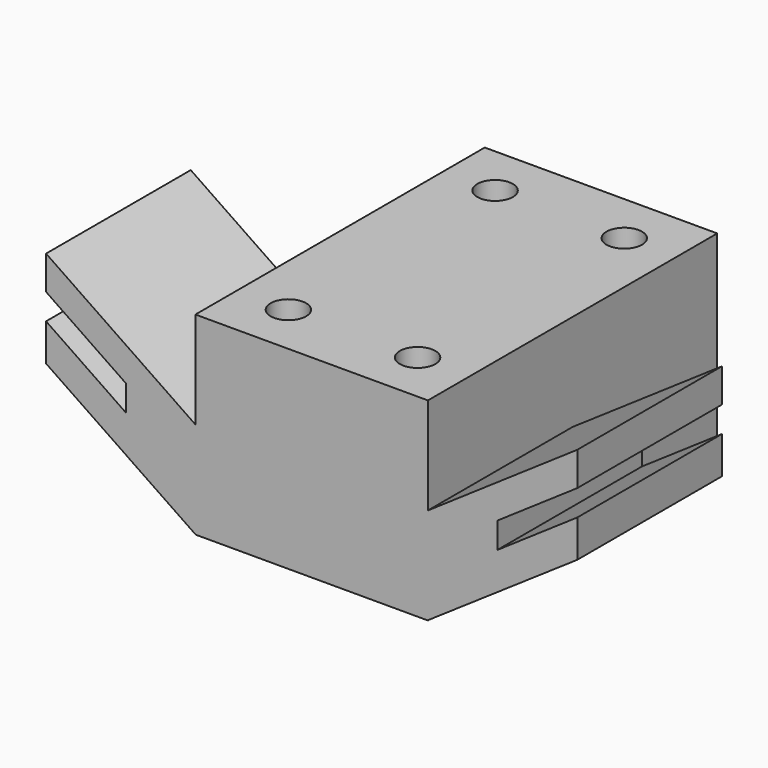
from build123d import *

# Parameters (mm, degrees)
F0_W     = 36
F0_H     = 56
F1_DEPTH = 15
F3_DEPTH = 28
F4_D     = 5.5
F5_DEPTH = 15


with BuildPart() as f1:
    # F0 (on Top) → F1 (new body)
    with BuildSketch(Plane.XY):
        Rectangle(F0_W, F0_H)
    extrude(amount=F1_DEPTH)

    # F2 (on Front) → F3 (join)
    with BuildSketch(Plane.XZ):
        Polygon((-17.9443880916, 0), (-18, 15), (-41.1238394028, 30.7888584537), (-41.1238394028, 25.5634840578), (-28.7360682942, 17.105167029), (-28.7360682942, 13.1013058126), (-41.1238394028, 21.5596228414), (-41.1238394028, 15.7888584537), align=None)
        Polygon((28.7360682942, 17.105167029), (41.1238394028, 25.5634840578), (41.1238394028, 30.7888584537), (18, 15), (17.9443880916, 0), (41.1238394028, 15.7888584537), (41.1238394028, 21.5596228414), (28.7360682942, 13.1013058126), align=None)
    extrude(amount=F3_DEPTH)

    # F4 (through all)
    with Locations(Plane(origin=(0, 0, 0), x_dir=(1, 0, 0), z_dir=(0, 0, -1))):
        with Locations((-10, 20), (10, 20), (10, -20), (-10, -20)):
            Hole(F4_D / 2)

    # F5 (add): a face of the model
    f5_faces = [f1.faces().sort_by_distance(p)[0] for p in [
        (0, 0, 15),
    ]]
    extrude(f5_faces, amount=F5_DEPTH)


solid = f1.part
